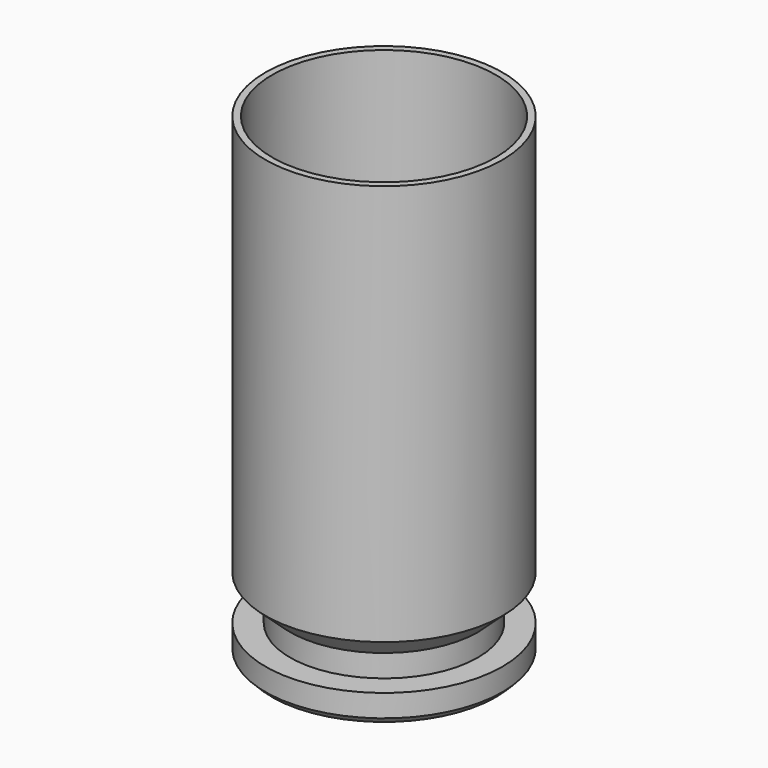
from build123d import *

# Parameters (mm, degrees)
F2_R    = 2
F3_R    = 0.3
F4_SIZE = 0.3


with BuildPart() as f1:
    # F0 (on Front) → F1 (revolve)
    with BuildSketch(Plane.XZ):
        Polygon((2.1, 0), (5.3, 0), (5.3, 1.3), (4.2, 1.3), (4.2, 2.3), (5.3, 3.3), (5.3, 21.25), (5, 21.25), (5, 3.378872), (0.63314, 3.378872), (0.63314, 1.22387), (0, 1.22387), (0, 0), (2, 0), (2, 0.961065), (2.1, 0.961065), align=None)
    revolve(axis=Axis((0, 0, 10.625), (0, 0, 1)))

    # F2
    f2_edges = [f1.edges().sort_by_distance(p)[0] for p in [
        (-5, 0, 3.378872),
    ]]
    fillet(f2_edges, radius=F2_R)

    # F3
    f3_edges = [f1.edges().sort_by_distance(p)[0] for p in [
        (-2.1, 0, 0),
        (-2, 0, 0),
    ]]
    fillet(f3_edges, radius=F3_R)

    # F4
    f4_edges = [f1.edges().sort_by_distance(p)[0] for p in [
        (-5.3, 0, 0),
    ]]
    chamfer(f4_edges, length=F4_SIZE)

    # F5 (on Front) → F6 (revolve, cut)
    with BuildSketch(Plane.XZ):
        with BuildLine():
            Line((-0.916817, 0), (-0.416817, 0))
            Line((-0.416817, 0), (-0.416817, 0.205113))
            ThreePointArc((-0.416817, 0.205113), (-0.687035, 0.151842), (-0.916817, 0))
        make_face()
    revolve(axis=Axis((-0.416817, 0, 0.102557), (0, 0, 1)), mode=Mode.SUBTRACT)


solid = f1.part
